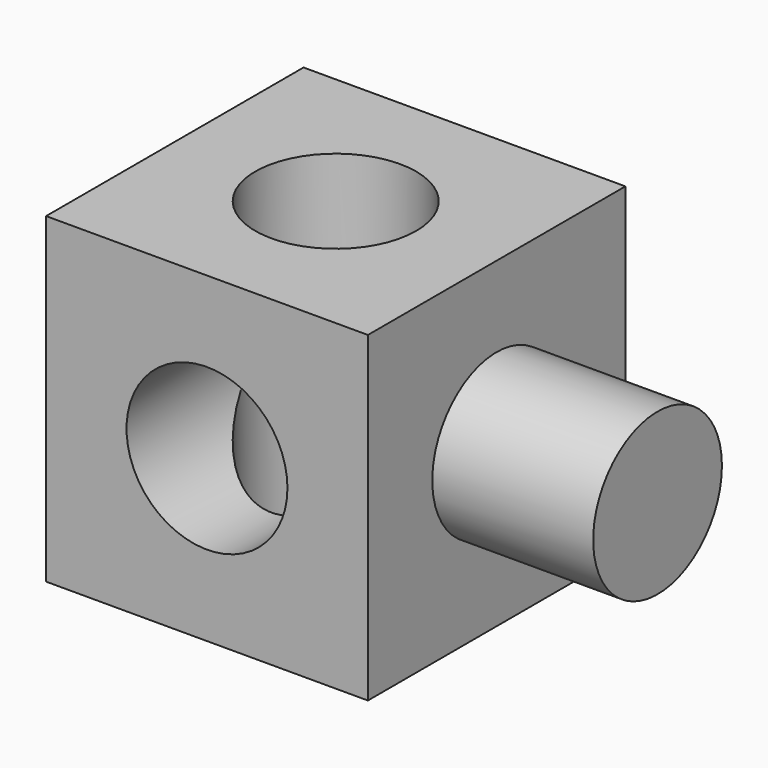
from build123d import *

# Parameters (mm, degrees)
F0_W     = 50.8
F0_H     = 50.8
F0_R     = 12.7
F3_R     = 12.7
F4_DEPTH = 25.4
F6_D     = 25.4


with BuildPart() as f2:
    # F2: sweep along a path in F1
    with BuildLine(Plane.XZ) as f2_path:
        Line((0, 0), (0, 50.8))
    # F0 (on Top) → F2 (sweep)
    with BuildSketch(Plane.XY):
        Rectangle(F0_W, F0_H)
        Circle(F0_R, mode=Mode.SUBTRACT)
    sweep(path=f2_path.line)

    # F3 (on face) → F4 (join)
    with BuildSketch(Plane.YZ.offset(25.4)):
        with Locations((0, 25.4)):
            Circle(F3_R)
    extrude(amount=F4_DEPTH)

    # F6 (through all)
    with Locations(Plane(origin=(0, 25.4, 0), x_dir=(-1, 0, 0), z_dir=(0, 1, 0))):
        with Locations((0, 25.4)):
            Hole(F6_D / 2)


solid = f2.part
